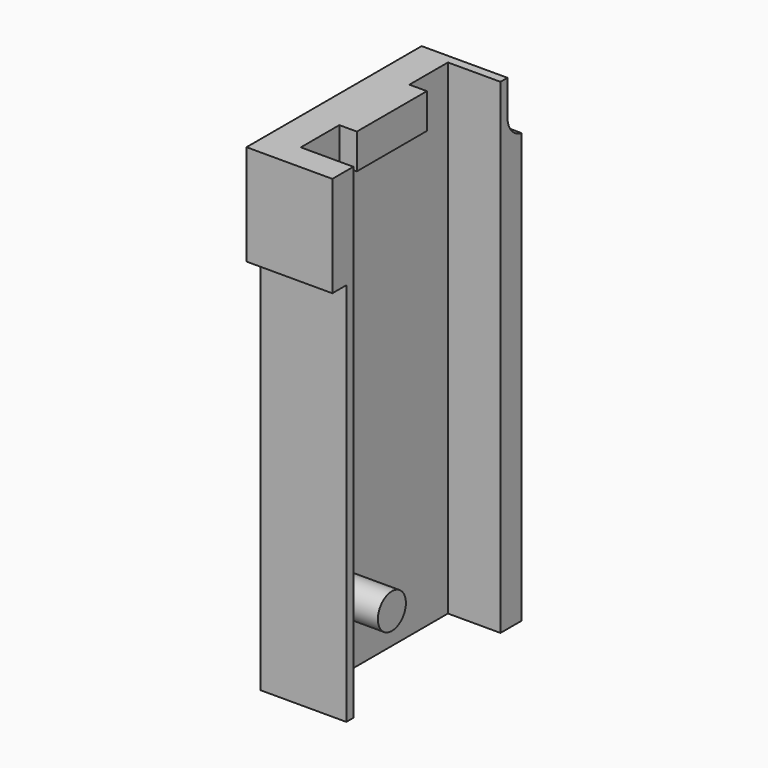
from build123d import *

# Parameters (mm, degrees)
SKETCH024_W     = 27
SKETCH024_H     = 55.4
PAD006_DEPTH    = 9.8
SKETCH025_W     = 21
SKETCH025_H     = 55.4
POCKET022_DEPTH = 6
SKETCH026_W     = 10
SKETCH026_H     = 4
PAD007_DEPTH    = 2
SKETCH027_R     = 2
PAD008_DEPTH    = 6
SKETCH028_W     = 2
SKETCH028_H     = 43.9
POCKET023_DEPTH = 9.8
SKETCH029_W     = 48.033568
SKETCH029_H     = 4.9
PAD009_DEPTH    = 3.4


with BuildPart() as part:
    # Sketch024 → Pad006 (new body)
    with BuildSketch(Plane.YZ):
        Rectangle(SKETCH024_W, SKETCH024_H)
    extrude(amount=PAD006_DEPTH)

    # Sketch025 (on Face6 of Pad006) → Pocket022 (cut)
    with BuildSketch(Plane.YZ.offset(9.8)):
        Rectangle(SKETCH025_W, SKETCH025_H)
    extrude(amount=-POCKET022_DEPTH, mode=Mode.SUBTRACT)

    # Sketch026 (on Face6 of Pocket022) → Pad007 (join)
    with BuildSketch(Plane.YZ.offset(3.8)):
        with Locations((0, 25.7)):
            Rectangle(SKETCH026_W, SKETCH026_H)
    extrude(amount=PAD007_DEPTH)

    # Sketch027 (on Face6 of Pad007) → Pad008 (join)
    with BuildSketch(Plane.YZ.offset(3.8)):
        with Locations((-5, -19.2)):
            Circle(SKETCH027_R)
    extrude(amount=PAD008_DEPTH)

    # Sketch028 (on Face2 of Pad008) → Pocket023 (cut)
    with BuildSketch(Plane(origin=(0, 0, 0), x_dir=(0, 1, 0), z_dir=(-1, 0, 0))):
        with Locations((-12.5, 5.75)):
            Rectangle(SKETCH028_W, SKETCH028_H)
        with BuildLine():
            ThreePointArc((13.5, -21.333568), (12.06697, -22.150807), (11.5, -23.7))
            Line((11.5, -23.7), (11.5, -27.7))
            Line((11.5, -27.7), (13.5, -27.7))
            Line((13.5, -27.7), (13.5, -21.333568))
        make_face()
    extrude(amount=-POCKET023_DEPTH, mode=Mode.SUBTRACT)

    # Sketch029 (on Face3 of Pocket023) → Pad009 (join)
    with BuildSketch(Plane.ZX.offset(13.5)):
        with Locations((-3.683216, 2.45)):
            Rectangle(SKETCH029_W, SKETCH029_H)
    extrude(amount=PAD009_DEPTH)


solid = part.part
